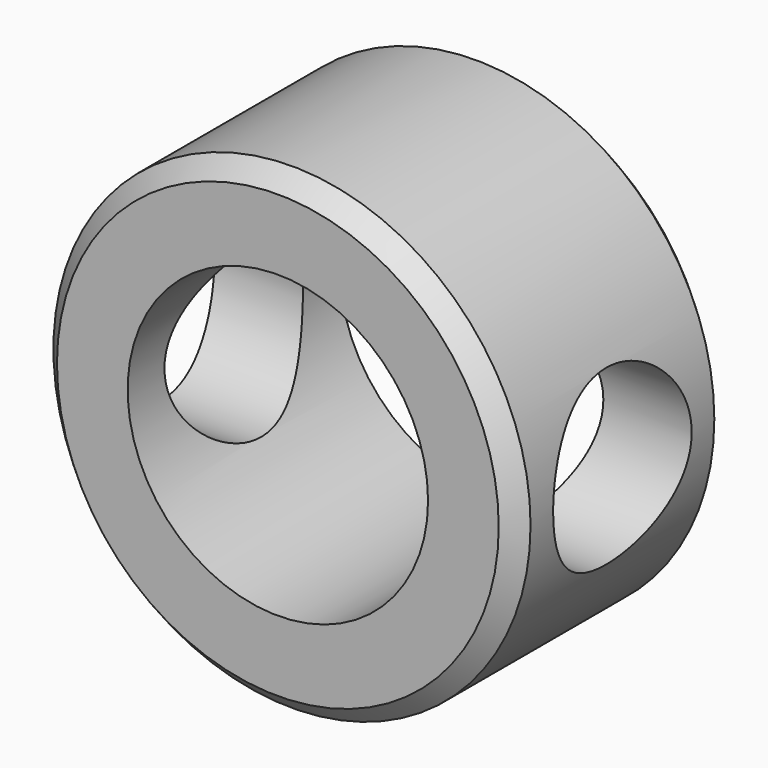
from build123d import *

# Parameters (mm, degrees)
F0_R     = 13.5
F0_R_2   = 8.5
F1_DEPTH = 7.5
F2_R     = 4.9
F3_DEPTH = 15
F4_SIZE  = 1


with BuildPart() as f1:
    # F0 (on Front) → F1 (new body, symmetric)
    with BuildSketch(Plane.XZ):
        Circle(F0_R)
        Circle(F0_R_2, mode=Mode.SUBTRACT)
    extrude(amount=F1_DEPTH, both=True)

    # F2 (on Right) → F3 (cut, symmetric)
    with BuildSketch(Plane.YZ):
        Circle(F2_R)
    extrude(amount=F3_DEPTH, both=True, mode=Mode.SUBTRACT)

    # F4
    f4_edges = [f1.edges().sort_by_distance(p)[0] for p in [
        (-13.5, -7.5, 0),
        (-13.5, 7.5, 0),
    ]]
    chamfer(f4_edges, length=F4_SIZE)


solid = f1.part
